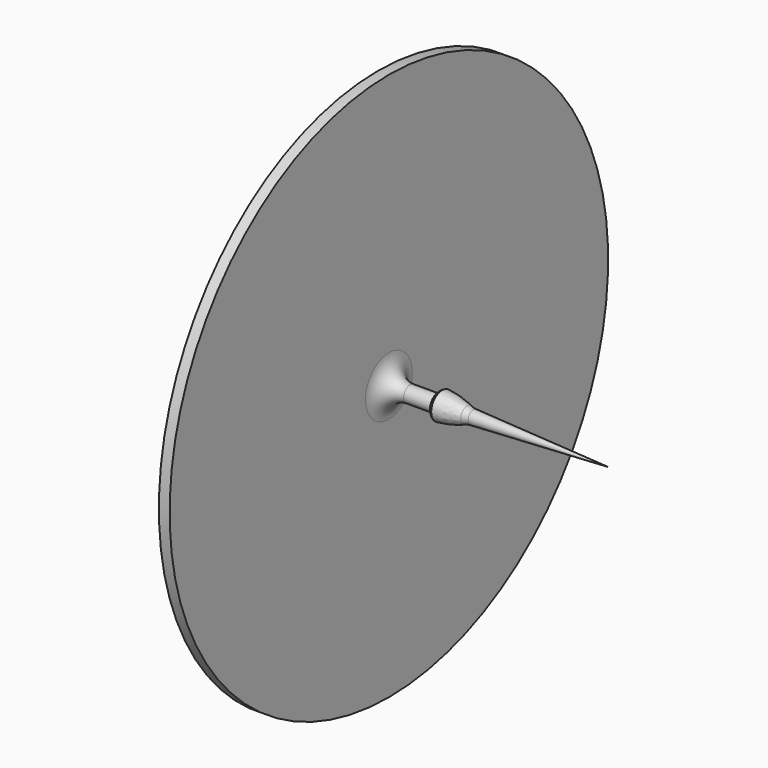
from build123d import *

# Parameters (mm, degrees)
F2_R = 0.15


with BuildPart() as f1:
    # F0 (on Front) → F1 (revolve)
    with BuildSketch(Plane.XZ):
        Polygon((-8.8612791151, 0.7139704241), (-8.8612791151, -1.2239410314), (-7.2293654084, -1.2239410314), (-8.2116152161, -1.1755352867), (-8.3825848997, -1.1671098182), (-8.4430640563, -1.1671098182), (-8.7851230055, -1.1671098182), (-8.7851230055, 0.7139704241), align=None)
        with BuildLine():
            Line((-8.3825848997, -1.1671098182), (-8.2116152161, -1.1755352867))
            ThreePointArc((-8.2116152161, -1.1755352867), (-8.308562195, -1.1443096251), (-8.4090661258, -1.1277954327))
            ThreePointArc((-8.4090661258, -1.1277954327), (-8.4310348623, -1.1431549127), (-8.4430640563, -1.1671098182))
            Line((-8.4430640563, -1.1671098182), (-8.3825848997, -1.1671098182))
        make_face()
    revolve(axis=Axis((2.1504459168, 0, -1.2239410314), (1, 0, 0)))

    # F2
    f2_edges = [f1.edges().sort_by_distance(p)[0] for p in [
        (-8.785123, 0, -1.280772),
        (-8.211615, 0, -1.272347),
    ]]
    fillet(f2_edges, radius=F2_R)


solid = f1.part
